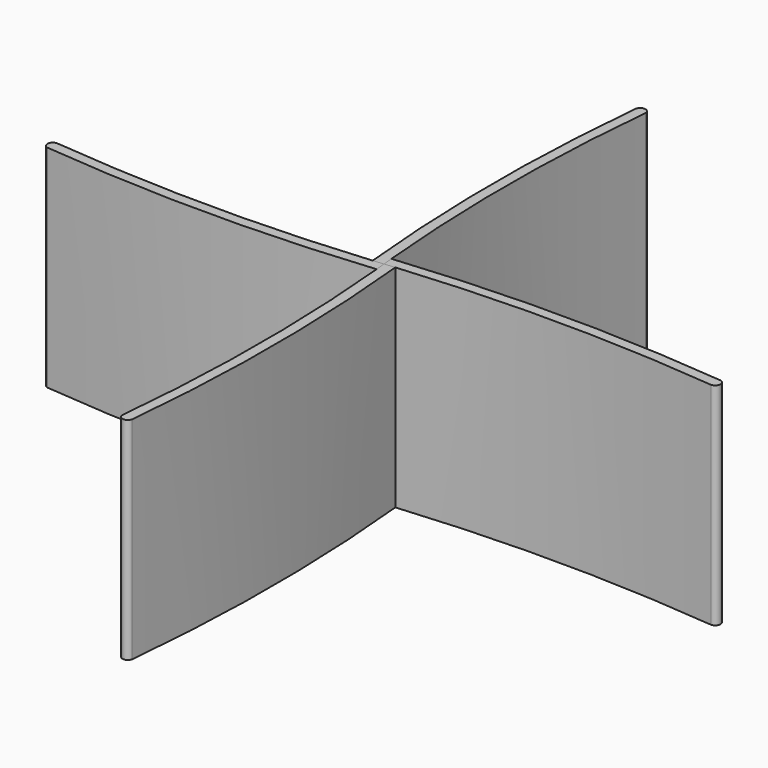
from build123d import *

# Parameters (mm, degrees)
F1_DEPTH = 25.4


with BuildPart() as f1:
    # F0 (on Top) → F1 (new body)
    with BuildSketch(Plane.XY):
        with BuildLine():
            ThreePointArc((-1.264164, -0.121677), (-0.631985, -0.061849), (0, 0))
            Line((0, 0), (-0.125718, 1.263762))
            ThreePointArc((-0.125718, 1.263762), (-0.123698, 1.263963), (-0.121677, 1.264164))
            ThreePointArc((-0.121677, 1.264164), (-0.974467, 20.295204), (0, 39.320402))
            ThreePointArc((0, 39.320402), (-0.577531, 39.929611), (-1.263762, 39.44612))
            ThreePointArc((-1.263762, 39.44612), (-2.245482, 19.662231), (-1.264164, -0.121677))
        make_face()
        with BuildLine():
            ThreePointArc((1.264164, 0.121677), (20.295204, 0.974467), (39.320402, 0))
            ThreePointArc((39.320402, 0), (39.929611, 0.577531), (39.44612, 1.263762))
            ThreePointArc((39.44612, 1.263762), (19.662231, 2.245482), (-0.121677, 1.264164))
            ThreePointArc((-0.121677, 1.264164), (-0.061849, 0.631985), (0, 0))
            Line((0, 0), (1.263762, 0.125718))
            ThreePointArc((1.263762, 0.125718), (1.263963, 0.123698), (1.264164, 0.121677))
        make_face()
        with BuildLine():
            ThreePointArc((1.263762, -39.44612), (2.245482, -19.662231), (1.264164, 0.121677))
            ThreePointArc((1.264164, 0.121677), (0.631985, 0.061849), (0, 0))
            Line((0, 0), (0.125718, -1.263762))
            ThreePointArc((0.125718, -1.263762), (0.123698, -1.263963), (0.121677, -1.264164))
            ThreePointArc((0.121677, -1.264164), (0.974467, -20.295204), (0, -39.320402))
            ThreePointArc((0, -39.320402), (0.577531, -39.929611), (1.263762, -39.44612))
        make_face()
        with BuildLine():
            ThreePointArc((0.121677, -1.264164), (0.061849, -0.631985), (0, 0))
            Line((0, 0), (-1.263762, -0.125718))
            ThreePointArc((-1.263762, -0.125718), (-1.263963, -0.123698), (-1.264164, -0.121677))
            ThreePointArc((-1.264164, -0.121677), (-20.295204, -0.974467), (-39.320402, 0))
            ThreePointArc((-39.320402, 0), (-39.929611, -0.577531), (-39.44612, -1.263762))
            ThreePointArc((-39.44612, -1.263762), (-19.662231, -2.245482), (0.121677, -1.264164))
        make_face()
    extrude(amount=F1_DEPTH)


solid = f1.part
